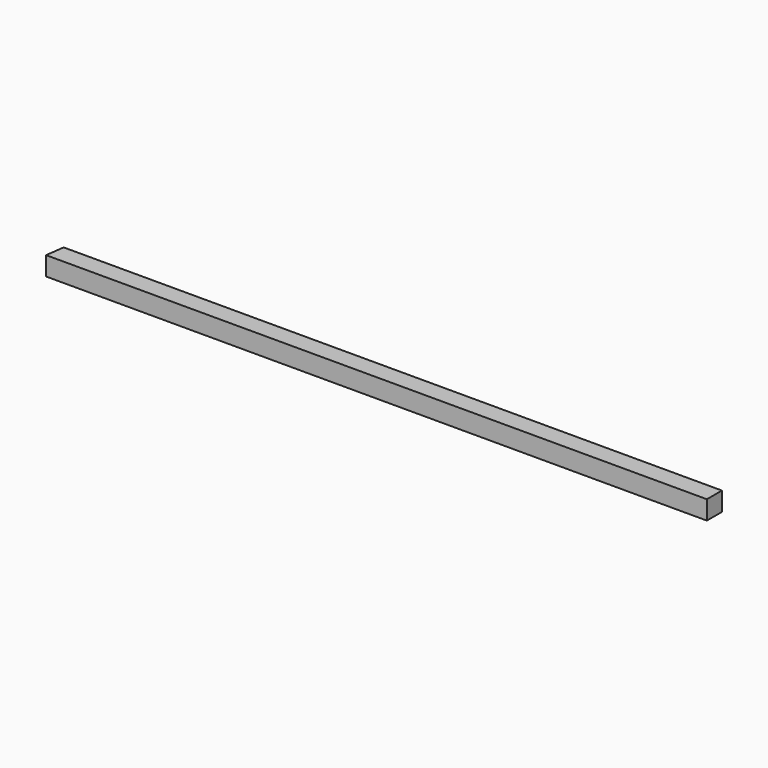
from build123d import *

# Parameters (mm, degrees)
F0_W     = 1114.425
F0_H     = 31.75
F1_DEPTH = 15.875
F3_DEPTH = 31.75


with BuildPart() as f1:
    # F0 (on Top) → F1 (new body, symmetric)
    with BuildSketch(Plane.XY):
        Rectangle(F0_W, F0_H)
    extrude(amount=F1_DEPTH, both=True)

    # F2 (on face) → F3 (cut)
    with BuildSketch(Plane.XY.offset(15.875)):
        Polygon((-557.2125, 15.875), (-557.2125, -15.875), (-552.891515, 15.875), align=None)
    extrude(amount=-F3_DEPTH, mode=Mode.SUBTRACT)


solid = f1.part
